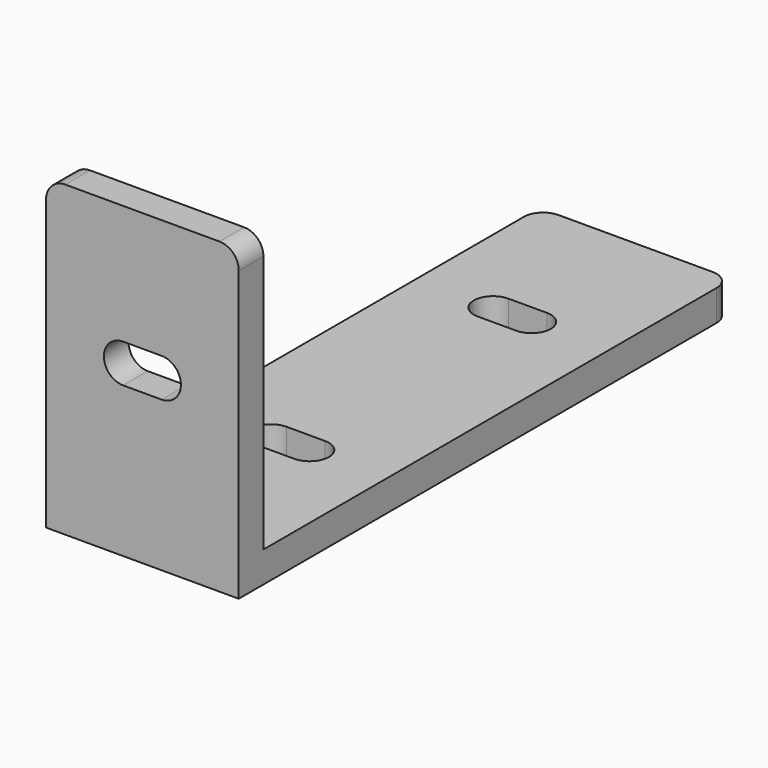
from build123d import *

# Parameters (mm, degrees)
PAD002_DEPTH            = 25
POCKET002_DEPTH         = 8.001
POCKET003_DEPTH         = 8.001
FILLET_R                = 5
BODY002_ROLL_ANGLE      = 90
BODY002_PLACEMENT_ANGLE = 90


with BuildPart() as part:
    # Sketch008 → Pad002 (new body, symmetric)
    with BuildSketch(Plane.XY):
        Polygon((0, 0), (0, 80), (8, 80), (8, 8), (160, 8), (160, 0), align=None)
    extrude(amount=PAD002_DEPTH, both=True)

    # Sketch009 (on Face4 of Pad002) → Pocket002 (cut, through all)
    with BuildSketch(Plane(origin=(0, 8, 0), x_dir=(-1, 0, 0), z_dir=(0, 1, 0))):
        with BuildLine():
            ThreePointArc((-115, 5), (-120, 10), (-125, 5))
            Line((-125, 5), (-125, -5))
            ThreePointArc((-125, -5), (-120, -10), (-115, -5))
            Line((-115, 5), (-115, -5))
        make_face()
        with BuildLine():
            ThreePointArc((-53, -5), (-48, -10), (-43, -5))
            Line((-43, -5), (-43, 5))
            ThreePointArc((-43, 5), (-48, 10), (-53, 5))
            Line((-53, -5), (-53, 5))
        make_face()
    extrude(amount=-POCKET002_DEPTH, mode=Mode.SUBTRACT)

    # Sketch010 (on Face15 of Pocket002) → Pocket003 (cut, through all)
    with BuildSketch(Plane.YZ.offset(8)):
        with BuildLine():
            ThreePointArc((39, -5), (44, -10), (49, -5))
            Line((49, -5), (49, 5))
            ThreePointArc((49, 5), (44, 10), (39, 5))
            Line((39, -5), (39, 5))
        make_face()
    extrude(amount=-POCKET003_DEPTH, mode=Mode.SUBTRACT)

    # Fillet
    fillet_edges = [part.edges().sort_by_distance(p)[0] for p in [
        (4, 80, 25),
        (4, 80, -25),
        (160, 4, -25),
        (160, 4, 25),
    ]]
    fillet(fillet_edges, radius=FILLET_R)


with BuildPart() as part_1:
    # Body002 roll: moved
    add(part.part.rotate(Axis((0, 0, 0), (1, 0, 0)), BODY002_ROLL_ANGLE))


with BuildPart() as part_2:
    # Body002 placement: moved
    add(part_1.part.moved(Location((32.2, -354, 0))).rotate(Axis((32.2, -354, 0), (0, 0, 1)), BODY002_PLACEMENT_ANGLE))


solid = part_2.part
